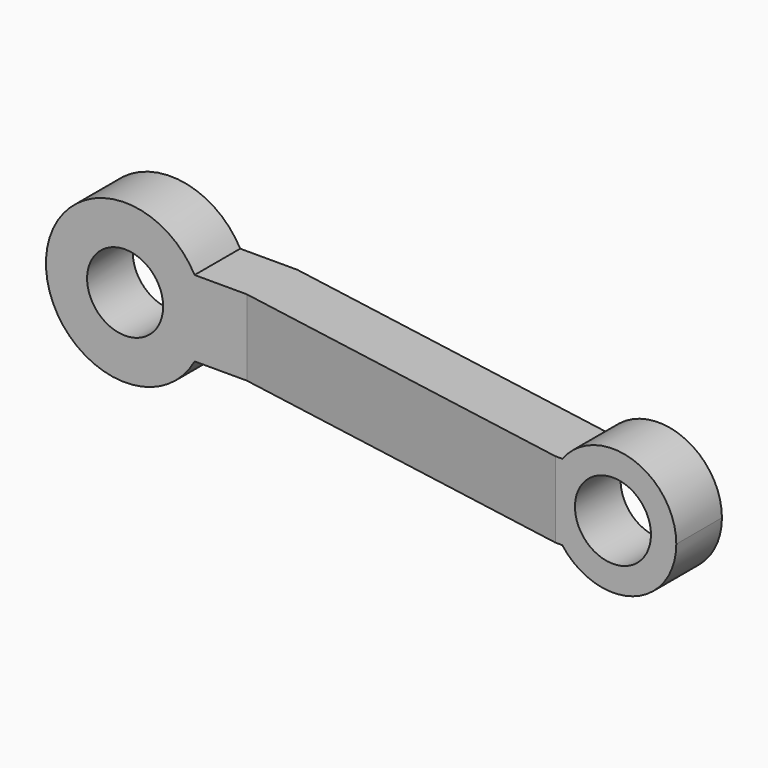
from build123d import *

# Parameters (mm, degrees)
F0_R     = 6
F1_DEPTH = 25
F3_DEPTH = 12.5


with BuildPart() as f1:
    # F0 (on Front) → F1 (new body)
    with BuildSketch(Plane.XZ):
        with BuildLine():
            ThreePointArc((10.965856, -6), (12.110392, -3.096514), (12.5, 0))
            ThreePointArc((12.5, 0), (12.110392, 3.096514), (10.965856, 6))
            ThreePointArc((10.965856, 6), (-12.5, 0), (10.965856, -6))
        make_face()
        Circle(F0_R, mode=Mode.SUBTRACT)
        with BuildLine():
            ThreePointArc((10.965856, 6), (12.110392, 3.096514), (12.5, 0))
            ThreePointArc((12.5, 0), (12.110392, -3.096514), (10.965856, -6))
            Line((10.965856, -6), (77, -6))
            ThreePointArc((77, -6), (75, 0), (77, 6))
            Line((77, 6), (10.965856, 6))
        make_face()
        with BuildLine():
            ThreePointArc((95, 0), (88.162278, 9.486833), (77, 6))
            ThreePointArc((77, 6), (75, 0), (77, -6))
            ThreePointArc((77, -6), (88.162278, -9.486833), (95, 0))
        make_face()
        with Locations((85, 0)):
            Circle(F0_R, mode=Mode.SUBTRACT)
    extrude(amount=F1_DEPTH)

    # F2 (on Top) → F3 (intersect, symmetric)
    with BuildSketch(Plane.XY):
        Polygon((20, 0), (-12.5, 0), (-12.5, -9), (19.212602, -9), (75.92079, -18.999184), (95, -18.999184), (95, -9.999184), (76.708188, -9.999184), align=None)
    extrude(amount=F3_DEPTH, both=True, mode=Mode.INTERSECT)


solid = f1.part
